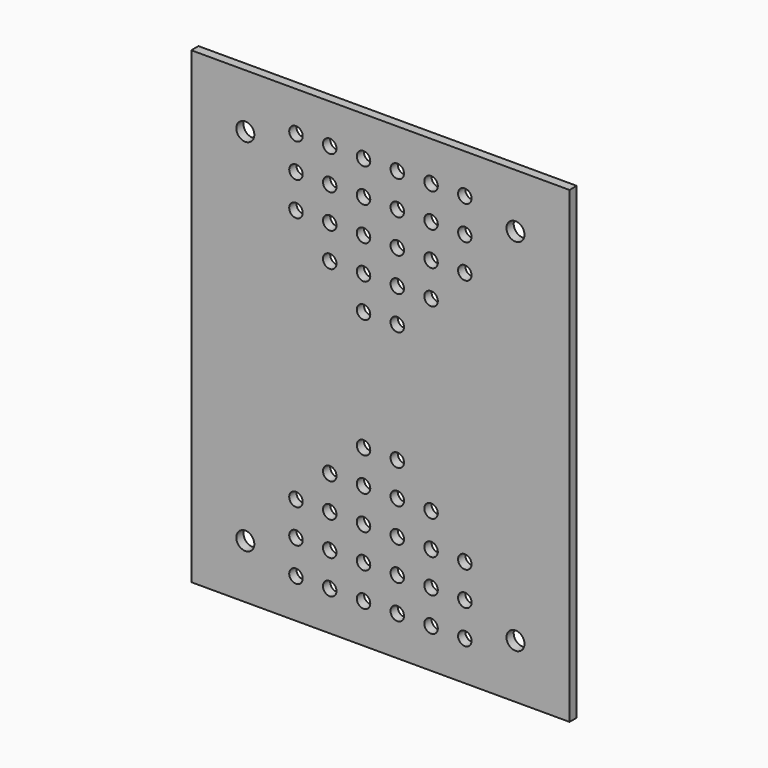
from build123d import *

# Parameters (mm, degrees)
F0_W     = 84
F0_H     = 104
F0_R     = 2
F1_DEPTH = 2
F2_R     = 1.5
F3_DEPTH = 2.001


with BuildPart() as f1:
    # F0 (on Front) → F1 (new body)
    with BuildSketch(Plane.XZ):
        Rectangle(F0_W, F0_H)
        with Locations((-30, -40)):
            Circle(F0_R, mode=Mode.SUBTRACT)
        with Locations((30, -40)):
            Circle(F0_R, mode=Mode.SUBTRACT)
        with Locations((-30, 40)):
            Circle(F0_R, mode=Mode.SUBTRACT)
        with Locations((30, 40)):
            Circle(F0_R, mode=Mode.SUBTRACT)
    extrude(amount=F1_DEPTH)

    # F2 (on face) → F3 (cut, through all)
    with BuildSketch(Plane.XZ.offset(2)):
        with Locations((-3.75, 43.25)):
            Circle(F2_R)
        with Locations((-3.75, 35.75)):
            Circle(F2_R)
        with Locations((-3.75, 28.25)):
            Circle(F2_R)
        with Locations((-3.75, 20.75)):
            Circle(F2_R)
        with Locations((-3.75, 13.25)):
            Circle(F2_R)
        with Locations((-11.25, 43.25)):
            Circle(F2_R)
        with Locations((-11.25, 35.75)):
            Circle(F2_R)
        with Locations((-11.25, 28.25)):
            Circle(F2_R)
        with Locations((-11.25, 20.75)):
            Circle(F2_R)
        with Locations((-18.75, 43.25)):
            Circle(F2_R)
        with Locations((-18.75, 35.75)):
            Circle(F2_R)
        with Locations((-18.75, 28.25)):
            Circle(F2_R)
        with Locations((11.25, 43.25)):
            Circle(F2_R)
        with Locations((3.75, 13.25)):
            Circle(F2_R)
        with Locations((11.25, 35.75)):
            Circle(F2_R)
        with Locations((11.25, 28.25)):
            Circle(F2_R)
        with Locations((11.25, 20.75)):
            Circle(F2_R)
        with Locations((18.75, 43.25)):
            Circle(F2_R)
        with Locations((18.75, 35.75)):
            Circle(F2_R)
        with Locations((18.75, 28.25)):
            Circle(F2_R)
        with Locations((3.75, 43.25)):
            Circle(F2_R)
        with Locations((3.75, 35.75)):
            Circle(F2_R)
        with Locations((3.75, 28.25)):
            Circle(F2_R)
        with Locations((3.75, 20.75)):
            Circle(F2_R)
        with Locations((-3.75, -43.25)):
            Circle(F2_R)
        with Locations((-11.25, -43.25)):
            Circle(F2_R)
        with Locations((3.75, -28.25)):
            Circle(F2_R)
        with Locations((-3.75, -20.75)):
            Circle(F2_R)
        with Locations((-11.25, -28.25)):
            Circle(F2_R)
        with Locations((-3.75, -28.25)):
            Circle(F2_R)
        with Locations((18.75, -43.25)):
            Circle(F2_R)
        with Locations((11.25, -28.25)):
            Circle(F2_R)
        with Locations((-18.75, -28.25)):
            Circle(F2_R)
        with Locations((11.25, -35.75)):
            Circle(F2_R)
        with Locations((-3.75, -35.75)):
            Circle(F2_R)
        with Locations((3.75, -20.75)):
            Circle(F2_R)
        with Locations((18.75, -35.75)):
            Circle(F2_R)
        with Locations((-18.75, -35.75)):
            Circle(F2_R)
        with Locations((3.75, -35.75)):
            Circle(F2_R)
        with Locations((11.25, -43.25)):
            Circle(F2_R)
        with Locations((3.75, -13.25)):
            Circle(F2_R)
        with Locations((-11.25, -35.75)):
            Circle(F2_R)
        with Locations((-3.75, -13.25)):
            Circle(F2_R)
        with Locations((18.75, -28.25)):
            Circle(F2_R)
        with Locations((-11.25, -20.75)):
            Circle(F2_R)
        with Locations((11.25, -20.75)):
            Circle(F2_R)
        with Locations((-18.75, -43.25)):
            Circle(F2_R)
        with Locations((3.75, -43.25)):
            Circle(F2_R)
    extrude(amount=-F3_DEPTH, mode=Mode.SUBTRACT)


solid = f1.part
